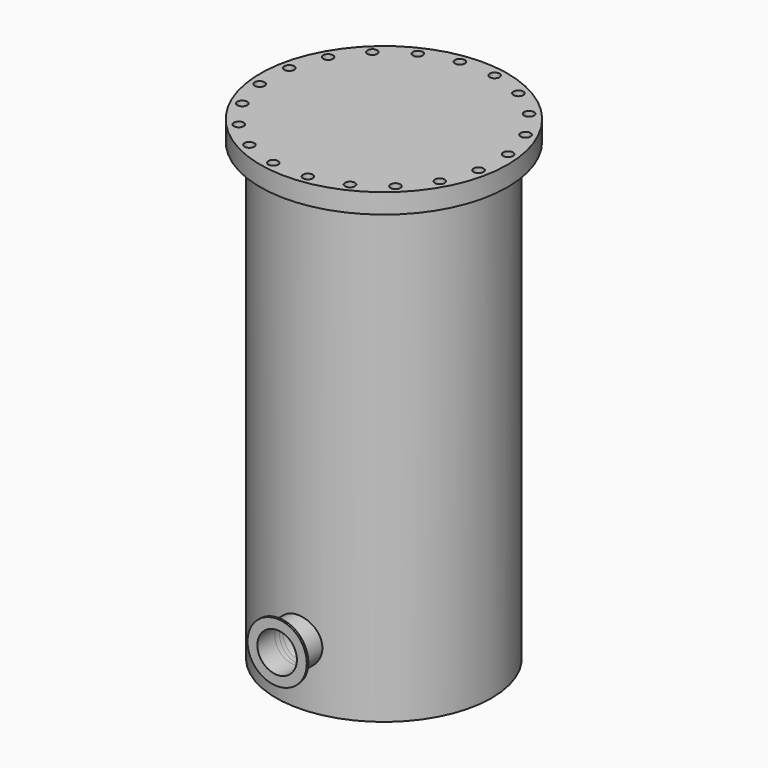
from build123d import *

# Parameters (mm, degrees)
F0_R           = 29.21
F0_R_2         = 25.4
F1_DEPTH       = 27.94
F0_R_3         = 38.1
F2_DEPTH       = 2.54
F3_R           = 138.43
F3_R_2         = 133.35
F4_DEPTH       = 76.2
F4_DEPTH_BACK  = 482.6
F5_DEPTH       = 47.498
F6_R           = 158.75
F7_DEPTH       = 25.4
F8_R           = 6.35
F9_DEPTH       = 25.4
F10_R          = 138.43
F11_DEPTH      = 25.4
F13_R          = 29.21
F13_R_2        = 25.4
F14_DEPTH      = 25.4
F14_DEPTH_BACK = 27.94
F15_R          = 38.1
F15_R_2        = 29.21
F16_DEPTH      = 2.54
F15_R_3        = 25.4
F17_DEPTH      = 50.8


with BuildPart() as f1:
    # F0 (on Front) → F1 (new body)
    with BuildSketch(Plane.XZ):
        Circle(F0_R)
        Circle(F0_R_2, mode=Mode.SUBTRACT)
    extrude(amount=F1_DEPTH)

    # F0 (on Front) → F2 (join)
    with BuildSketch(Plane.XZ):
        Circle(F0_R_3)
        Circle(F0_R, mode=Mode.SUBTRACT)
    extrude(amount=F2_DEPTH)

    # F3 (on Top) → F4 (join, two sides)
    with BuildSketch(Plane.XY) as f4_sk:
        with Locations((0, -161.29)):
            Circle(F3_R)
        with Locations((0, -161.29)):
            Circle(F3_R_2, mode=Mode.SUBTRACT)
    extrude(amount=F4_DEPTH)
    extrude(f4_sk.sketch, amount=-F4_DEPTH_BACK)

    # F0 (on Front) → F5 (cut)
    with BuildSketch(Plane.XZ):
        Circle(F0_R_2)
    extrude(amount=F5_DEPTH, mode=Mode.SUBTRACT)

    # F6 (on face) → F7 (join)
    with BuildSketch(Plane.XY.offset(76.2)):
        with Locations((0, -161.29)):
            Circle(F6_R)
    extrude(amount=F7_DEPTH)

    # F8 (on face) → F9 (cut)
    with BuildSketch(Plane.XY.offset(101.6)):
        with Locations((27.3684716826, -17.8272199567)):
            Circle(F8_R)
        with Locations((70.3614004285, -33.306111054)):
            Circle(F8_R)
        with Locations((106.4668650637, -61.3129569175)):
            Circle(F8_R)
        with Locations((132.1506111482, -99.106252339)):
            Circle(F8_R)
        with Locations((144.898534666, -142.9865262412)):
            Circle(F8_R)
        with Locations((143.4627800433, -188.6584716826)):
            Circle(F8_R)
        with Locations((127.983888946, -231.6514004285)):
            Circle(F8_R)
        with Locations((99.9770430825, -267.7568650637)):
            Circle(F8_R)
        with Locations((62.183747661, -293.4406111482)):
            Circle(F8_R)
        with Locations((18.3034737588, -306.188534666)):
            Circle(F8_R)
        with Locations((-27.3684716826, -304.7527800433)):
            Circle(F8_R)
        with Locations((-70.3614004285, -289.273888946)):
            Circle(F8_R)
        with Locations((-106.4668650637, -261.2670430825)):
            Circle(F8_R)
        with Locations((-132.1506111482, -223.473747661)):
            Circle(F8_R)
        with Locations((-144.898534666, -179.5934737588)):
            Circle(F8_R)
        with Locations((-143.4627800433, -133.9215283174)):
            Circle(F8_R)
        with Locations((-127.983888946, -90.9285995715)):
            Circle(F8_R)
        with Locations((-99.9770430825, -54.8231349363)):
            Circle(F8_R)
        with Locations((-18.3034737588, -16.391465334)):
            Circle(F8_R)
        with Locations((-62.183747661, -29.1393888518)):
            Circle(F8_R)
    extrude(amount=-F9_DEPTH, mode=Mode.SUBTRACT)

    # F10 (on face) → F11 (join)
    with BuildSketch(Plane(origin=(0, 0, -482.6), x_dir=(1, 0, 0), z_dir=(0, 0, -1))):
        with Locations((0, 161.29)):
            Circle(F10_R)
    extrude(amount=F11_DEPTH)

    # F13 (on offset) → F14 (join, two sides)
    with BuildSketch(Plane.XZ.offset(304.8)) as f14_sk:
        with Locations((0, -431.8)):
            Circle(F13_R)
        with Locations((0, -431.8)):
            Circle(F13_R_2, mode=Mode.SUBTRACT)
    extrude(amount=-F14_DEPTH)
    extrude(f14_sk.sketch, amount=F14_DEPTH_BACK)

    # F15 (on face) → F16 (join)
    with BuildSketch(Plane.XZ.offset(332.74)):
        with Locations((0, -431.8)):
            Circle(F15_R)
        with Locations((0, -431.8)):
            Circle(F15_R_2, mode=Mode.SUBTRACT)
    extrude(amount=-F16_DEPTH)

    # F15 (on face) → F17 (cut)
    with BuildSketch(Plane.XZ.offset(332.74)):
        with Locations((0, -431.8)):
            Circle(F15_R_3)
    extrude(amount=-F17_DEPTH, mode=Mode.SUBTRACT)


solid = f1.part
